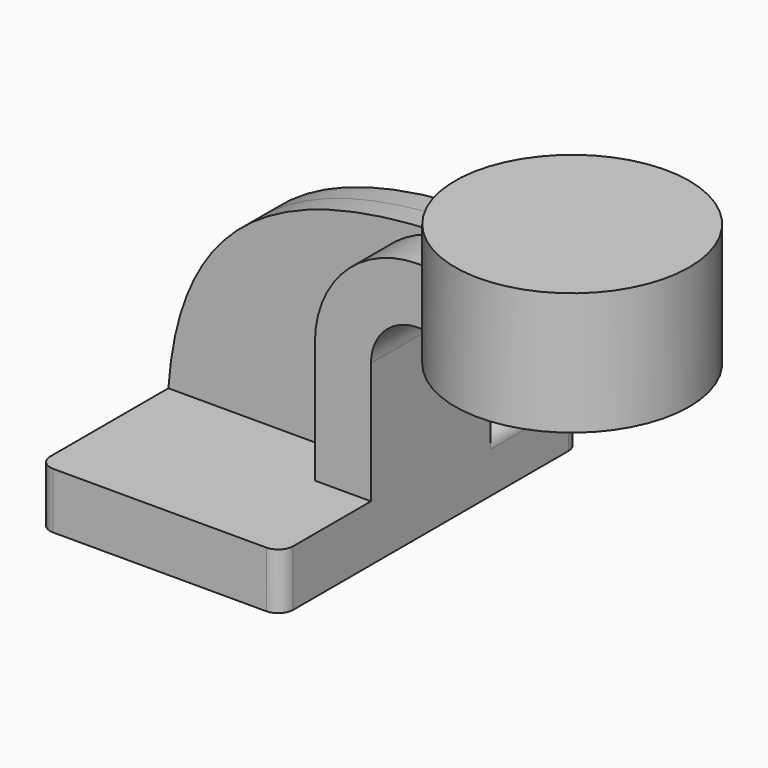
from build123d import *

# Parameters (mm, degrees)
F1_DEPTH = 63.5
F0_W     = 13.4667371243
F0_H     = 19.05
F2_DEPTH = 25.4
F3_DEPTH = 8.255
F5_R     = 5.08


with BuildPart() as f1:
    # F0 (on Front) → F1 (new body, symmetric)
    with BuildSketch(Plane.XZ):
        Polygon((-41.275, 9.525), (-41.275, -9.525), (41.275, -9.525), (41.275, 9.525), (22.225, 9.525), align=None)
    extrude(amount=F1_DEPTH, both=True)

    # F0 (on Front) → F2 (join, symmetric)
    with BuildSketch(Plane.XZ):
        with BuildLine():
            Line((22.225, 9.525), (41.275, 9.525))
            Line((41.275, 9.525), (41.275, 50.8))
            ThreePointArc((41.275, 50.8), (45.9246798487, 62.0253201513), (57.15, 66.675))
            Line((57.15, 66.675), (75.8414548727, 66.675))
            Line((75.8414548727, 66.675), (75.8414548727, 85.725))
            Line((75.8414548727, 85.725), (57.15, 85.725))
            ThreePointArc((57.15, 85.725), (32.4542956671, 75.4957043329), (22.225, 50.8))
            Line((22.225, 50.8), (22.225, 9.525))
        make_face()
        with Locations((82.5748234349, 76.2)):
            Rectangle(F0_W, F0_H)
    extrude(amount=F2_DEPTH, both=True)

    # F0 (on Front) → F3 (join, symmetric)
    with BuildSketch(Plane.XZ):
        with BuildLine():
            add(Edge.make_bspline(
                [(-41.275, 9.525), (-37.2192449868, 66.8318197131), (0, 89.7414088249), (75.8414548727, 85.725)],
                knots=[0, 0, 0, 0, 139.7236701563, 139.7236701563, 139.7236701563, 139.7236701563], degree=3))
            Line((-41.275, 9.525), (22.225, 9.525))
            Line((22.225, 9.525), (22.225, 50.8))
            ThreePointArc((22.225, 50.8), (32.4542956671, 75.4957043329), (57.15, 85.725))
            Line((57.15, 85.725), (75.8414548727, 85.725))
        make_face()
    extrude(amount=F3_DEPTH, both=True)

    # F0 (on Front) → F4 (revolve)
    with BuildSketch(Plane.XZ):
        Polygon((89.308191997, 97.7408438921), (89.308191997, 85.725), (89.308191997, 66.675), (89.308191997, 56.0535416007), (129.0989220142, 56.0535416007), (129.0989220142, 97.7408438921), align=None)
    revolve(axis=Axis((89.308191997, 0, 76.8971927464), (0, 0, 1)))

    # F5
    f5_edges = [f1.edges().sort_by_distance(p)[0] for p in [
        (41.275, 44.45, 9.525),
        (-41.275, 63.5, 0),
        (-41.275, -63.5, 0),
        (41.275, 63.5, 0),
        (41.275, -63.5, 0),
    ]]
    fillet(f5_edges, radius=F5_R)


solid = f1.part
